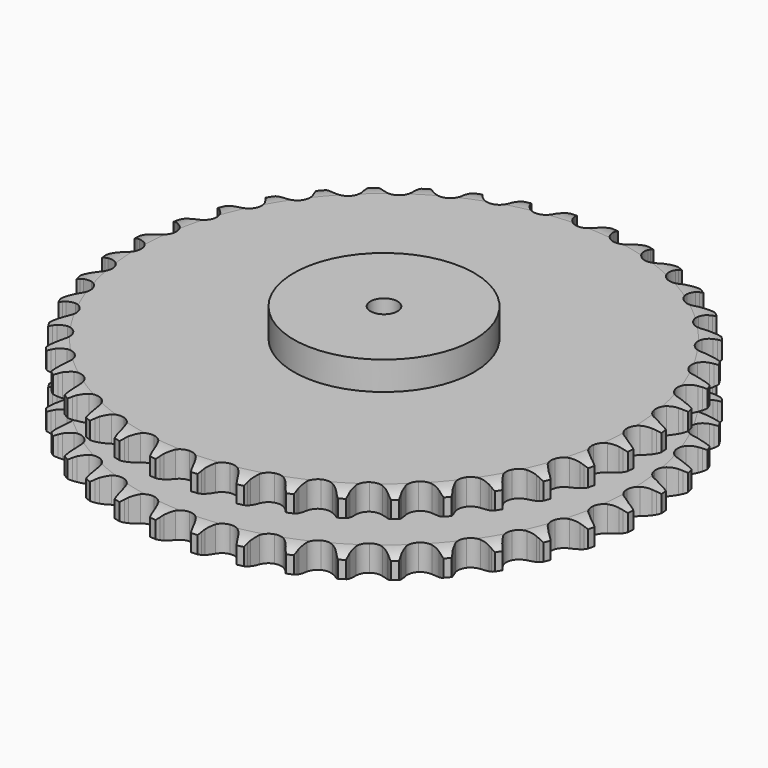
from build123d import *

# Parameters (mm, degrees)
PAD_DEPTH         = 88.4
SKETCH001_R       = 100
PAD001_DEPTH      = 120
SKETCH002_R       = 15
POCKET_DEPTH      = 0.001
POCKET_DEPTH_BACK = 120.001


with BuildPart() as part:
    # Sprocket → Pad (new body)
    with BuildSketch(Plane.XY):
        with BuildLine():
            ThreePointArc((-23.346576, 296.64638), (-19.990941, 292.617833), (-17.648967, 287.926924))
            Line((-17.648967, 287.926924), (-16.286841, 284.164092))
            ThreePointArc((-16.286841, 284.164092), (-14.138032, 279.349101), (-11.316657, 274.894737))
            ThreePointArc((-11.316657, 274.894737), (-6.336463, 270.69731), (0, 269.190673))
            ThreePointArc((0, 269.190673), (6.336463, 270.69731), (11.316657, 274.894737))
            ThreePointArc((11.316657, 274.894737), (14.138032, 279.349101), (16.286841, 284.164092))
            Line((16.286841, 284.164092), (17.648967, 287.926924))
            ThreePointArc((17.648967, 287.926924), (19.990941, 292.617833), (23.346576, 296.64638))
            ThreePointArc((23.346576, 296.64638), (26.030695, 292.142495), (27.610015, 287.142973))
            Line((27.610015, 287.142973), (28.366735, 283.213384))
            ThreePointArc((28.366735, 283.213384), (29.735858, 278.121526), (31.825681, 273.280642))
            ThreePointArc((31.825681, 273.280642), (36.087938, 268.355818), (42.110699, 265.876489))
            ThreePointArc((42.110699, 265.876489), (48.60484, 266.373336), (54.180341, 269.740012))
            Line((54.180341, 269.740012), (60.539381, 278.117737))
            ThreePointArc((60.539381, 278.117737), (61.458235, 279.896024), (62.473374, 281.621159))
            ThreePointArc((62.473374, 281.621159), (65.520334, 285.88795), (69.464859, 289.341961))
            ThreePointArc((69.464859, 289.341961), (71.411369, 284.473638), (72.189147, 279.288608))
            Line((72.189147, 279.288608), (72.321827, 275.289022))
            ThreePointArc((72.321827, 275.289022), (72.877552, 270.045675), (74.184365, 264.937471))
            ThreePointArc((74.184365, 264.937471), (77.623734, 259.406515), (83.184493, 256.015544))
            ThreePointArc((83.184493, 256.015544), (89.676404, 255.490366), (95.709926, 257.943392))
            Line((95.709926, 257.943392), (103.30124, 265.223201))
            ThreePointArc((103.30124, 265.223201), (104.486967, 266.835854), (105.759478, 268.380947))
            ThreePointArc((105.759478, 268.380947), (109.436398, 272.118557), (113.872686, 274.912983))
            ThreePointArc((113.872686, 274.912983), (115.033657, 269.800096), (114.990743, 264.557232))
            Line((114.990743, 264.557232), (114.496117, 260.586131))
            ThreePointArc((114.496117, 260.586131), (114.224759, 255.320404), (114.716384, 250.070659))
            ThreePointArc((114.716384, 250.070659), (117.248177, 244.069763), (122.210008, 239.850646))
            ThreePointArc((122.210008, 239.850646), (128.539837, 238.316375), (134.882814, 239.79535))
            Line((134.882814, 239.79535), (143.51948, 245.797989))
            ThreePointArc((143.51948, 245.797989), (144.942883, 247.205299), (146.441433, 248.532305))
            ThreePointArc((146.441433, 248.532305), (150.657776, 251.648701), (155.47659, 253.714736))
            ThreePointArc((155.47659, 253.714736), (155.823436, 248.483181), (154.960885, 243.311578))
            Line((154.960885, 243.311578), (153.851131, 239.466744))
            ThreePointArc((153.851131, 239.466744), (152.759374, 234.308297), (152.423705, 229.046278))
            ThreePointArc((152.423705, 229.046278), (153.98558, 222.723204), (158.226308, 217.779829))
            ThreePointArc((158.226308, 217.779829), (164.238193, 215.274244), (170.73444, 215.74275))
            Line((170.73444, 215.74275), (180.203793, 220.320415))
            ThreePointArc((180.203793, 220.320415), (181.829824, 221.487729), (183.517514, 222.563972))
            ThreePointArc((183.517514, 222.563972), (188.169458, 224.98242), (193.252144, 226.269189))
            ThreePointArc((193.252144, 226.269189), (192.776324, 221.047784), (191.115376, 216.074785))
            Line((191.115376, 216.074785), (189.417821, 212.450892))
            ThreePointArc((189.417821, 212.450892), (187.532545, 207.526742), (186.377848, 202.382018))
            ThreePointArc((186.377848, 202.382018), (186.931347, 195.89246), (190.34655, 190.34655))
            ThreePointArc((190.34655, 190.34655), (195.89246, 186.931347), (202.382018, 186.377848))
            Line((202.382018, 186.377848), (212.450892, 189.417821))
            ThreePointArc((212.450892, 189.417821), (214.239512, 190.316396), (216.074785, 191.115376))
            ThreePointArc((216.074785, 191.115376), (221.047784, 192.776324), (226.269189, 193.252144))
            ThreePointArc((226.269189, 193.252144), (224.98242, 188.169458), (222.563972, 183.517514))
            Line((222.563972, 183.517514), (220.320415, 180.203793))
            ThreePointArc((220.320415, 180.203793), (217.688043, 175.63519), (215.74275, 170.73444))
            ThreePointArc((215.74275, 170.73444), (215.274244, 164.238193), (217.779829, 158.226308))
            ThreePointArc((217.779829, 158.226308), (222.723204, 153.98558), (229.046278, 152.423705))
            Line((229.046278, 152.423705), (239.466744, 153.851131))
            ThreePointArc((239.466744, 153.851131), (241.373911, 154.458842), (243.311578, 154.960885))
            ThreePointArc((243.311578, 154.960885), (248.483181, 155.823436), (253.714736, 155.47659))
            ThreePointArc((253.714736, 155.47659), (251.648701, 150.657776), (248.532305, 146.441433))
            Line((248.532305, 146.441433), (245.797989, 143.51948))
            ThreePointArc((245.797989, 143.51948), (242.483339, 139.418917), (239.79535, 134.882814))
            ThreePointArc((239.79535, 134.882814), (238.316375, 128.539837), (239.850646, 122.210008))
            ThreePointArc((239.850646, 122.210008), (244.069763, 117.248177), (250.070659, 114.716384))
            Line((250.070659, 114.716384), (260.586131, 114.496117))
            ThreePointArc((260.586131, 114.496117), (262.564884, 114.797999), (264.557232, 114.990743))
            ThreePointArc((264.557232, 114.990743), (269.800096, 115.033657), (274.912983, 113.872686))
            ThreePointArc((274.912983, 113.872686), (272.118557, 109.436398), (268.380947, 105.759478))
            Line((268.380947, 105.759478), (265.223201, 103.30124))
            ThreePointArc((265.223201, 103.30124), (261.307891, 99.769687), (257.943392, 95.709926))
            ThreePointArc((257.943392, 95.709926), (255.490366, 89.676404), (256.015544, 83.184493))
            ThreePointArc((256.015544, 83.184493), (259.406515, 77.623734), (264.937471, 74.184365))
            Line((264.937471, 74.184365), (275.289022, 72.321827))
            ThreePointArc((275.289022, 72.321827), (277.290638, 72.310448), (279.288608, 72.189147))
            ThreePointArc((279.288608, 72.189147), (284.473638, 71.411369), (289.341961, 69.464859))
            ThreePointArc((289.341961, 69.464859), (285.88795, 65.520334), (281.621159, 62.473374))
            Line((281.621159, 62.473374), (278.117737, 60.539381))
            ThreePointArc((278.117737, 60.539381), (273.698175, 57.663797), (269.740012, 54.180341))
            ThreePointArc((269.740012, 54.180341), (266.373336, 48.60484), (265.876489, 42.110699))
            ThreePointArc((265.876489, 42.110699), (268.355818, 36.087938), (273.280642, 31.825681))
            Line((273.280642, 31.825681), (283.213384, 28.366735))
            ThreePointArc((283.213384, 28.366735), (285.188577, 28.042373), (287.142973, 27.610015))
            ThreePointArc((287.142973, 27.610015), (292.142495, 26.030695), (296.64638, 23.346576))
            ThreePointArc((296.64638, 23.346576), (292.617833, 19.990941), (287.926924, 17.648967))
            Line((287.926924, 17.648967), (284.164092, 16.286841))
            ThreePointArc((284.164092, 16.286841), (279.349101, 14.138032), (274.894737, 11.316657))
            ThreePointArc((274.894737, 11.316657), (270.69731, 6.336463), (269.190673, 0))
            ThreePointArc((269.190673, 0), (270.69731, -6.336463), (274.894737, -11.316657))
            Line((274.894737, -11.316657), (284.164092, -16.286841))
            ThreePointArc((284.164092, -16.286841), (286.064226, -16.916197), (287.926924, -17.648967))
            ThreePointArc((287.926924, -17.648967), (292.617833, -19.990941), (296.64638, -23.346576))
            ThreePointArc((296.64638, -23.346576), (292.142495, -26.030695), (287.142973, -27.610015))
            Line((287.142973, -27.610015), (283.213384, -28.366735))
            ThreePointArc((283.213384, -28.366735), (278.121526, -29.735858), (273.280642, -31.825681))
            ThreePointArc((273.280642, -31.825681), (268.355818, -36.087938), (265.876489, -42.110699))
            ThreePointArc((265.876489, -42.110699), (266.373336, -48.60484), (269.740012, -54.180341))
            Line((269.740012, -54.180341), (278.117737, -60.539381))
            ThreePointArc((278.117737, -60.539381), (279.896024, -61.458235), (281.621159, -62.473374))
            ThreePointArc((281.621159, -62.473374), (285.88795, -65.520334), (289.341961, -69.464859))
            ThreePointArc((289.341961, -69.464859), (284.473638, -71.411369), (279.288608, -72.189147))
            Line((279.288608, -72.189147), (275.289022, -72.321827))
            ThreePointArc((275.289022, -72.321827), (270.045675, -72.877552), (264.937471, -74.184365))
            ThreePointArc((264.937471, -74.184365), (259.406515, -77.623734), (256.015544, -83.184493))
            ThreePointArc((256.015544, -83.184493), (255.490366, -89.676404), (257.943392, -95.709926))
            Line((257.943392, -95.709926), (265.223201, -103.30124))
            ThreePointArc((265.223201, -103.30124), (266.835854, -104.486967), (268.380947, -105.759478))
            ThreePointArc((268.380947, -105.759478), (272.118557, -109.436398), (274.912983, -113.872686))
            ThreePointArc((274.912983, -113.872686), (269.800096, -115.033657), (264.557232, -114.990743))
            Line((264.557232, -114.990743), (260.586131, -114.496117))
            ThreePointArc((260.586131, -114.496117), (255.320404, -114.224759), (250.070659, -114.716384))
            ThreePointArc((250.070659, -114.716384), (244.069763, -117.248177), (239.850646, -122.210008))
            ThreePointArc((239.850646, -122.210008), (238.316375, -128.539837), (239.79535, -134.882814))
            Line((239.79535, -134.882814), (245.797989, -143.51948))
            ThreePointArc((245.797989, -143.51948), (247.205299, -144.942883), (248.532305, -146.441433))
            ThreePointArc((248.532305, -146.441433), (251.648701, -150.657776), (253.714736, -155.47659))
            ThreePointArc((253.714736, -155.47659), (248.483181, -155.823436), (243.311578, -154.960885))
            Line((243.311578, -154.960885), (239.466744, -153.851131))
            ThreePointArc((239.466744, -153.851131), (234.308297, -152.759374), (229.046278, -152.423705))
            ThreePointArc((229.046278, -152.423705), (222.723204, -153.98558), (217.779829, -158.226308))
            ThreePointArc((217.779829, -158.226308), (215.274244, -164.238193), (215.74275, -170.73444))
            Line((215.74275, -170.73444), (220.320415, -180.203793))
            ThreePointArc((220.320415, -180.203793), (221.487729, -181.829824), (222.563972, -183.517514))
            ThreePointArc((222.563972, -183.517514), (224.98242, -188.169458), (226.269189, -193.252144))
            ThreePointArc((226.269189, -193.252144), (221.047784, -192.776324), (216.074785, -191.115376))
            Line((216.074785, -191.115376), (212.450892, -189.417821))
            ThreePointArc((212.450892, -189.417821), (207.526742, -187.532545), (202.382018, -186.377848))
            ThreePointArc((202.382018, -186.377848), (195.89246, -186.931347), (190.34655, -190.34655))
            ThreePointArc((190.34655, -190.34655), (186.931347, -195.89246), (186.377848, -202.382018))
            Line((186.377848, -202.382018), (189.417821, -212.450892))
            ThreePointArc((189.417821, -212.450892), (190.316396, -214.239512), (191.115376, -216.074785))
            ThreePointArc((191.115376, -216.074785), (192.776324, -221.047784), (193.252144, -226.269189))
            ThreePointArc((193.252144, -226.269189), (188.169458, -224.98242), (183.517514, -222.563972))
            Line((183.517514, -222.563972), (180.203793, -220.320415))
            ThreePointArc((180.203793, -220.320415), (175.63519, -217.688043), (170.73444, -215.74275))
            ThreePointArc((170.73444, -215.74275), (164.238193, -215.274244), (158.226308, -217.779829))
            ThreePointArc((158.226308, -217.779829), (153.98558, -222.723204), (152.423705, -229.046278))
            Line((152.423705, -229.046278), (153.851131, -239.466744))
            ThreePointArc((153.851131, -239.466744), (154.458842, -241.373911), (154.960885, -243.311578))
            ThreePointArc((154.960885, -243.311578), (155.823436, -248.483181), (155.47659, -253.714736))
            ThreePointArc((155.47659, -253.714736), (150.657776, -251.648701), (146.441433, -248.532305))
            Line((146.441433, -248.532305), (143.51948, -245.797989))
            ThreePointArc((143.51948, -245.797989), (139.418917, -242.483339), (134.882814, -239.79535))
            ThreePointArc((134.882814, -239.79535), (128.539837, -238.316375), (122.210008, -239.850646))
            ThreePointArc((122.210008, -239.850646), (117.248177, -244.069763), (114.716384, -250.070659))
            Line((114.716384, -250.070659), (114.496117, -260.586131))
            ThreePointArc((114.496117, -260.586131), (114.797999, -262.564884), (114.990743, -264.557232))
            ThreePointArc((114.990743, -264.557232), (115.033657, -269.800096), (113.872686, -274.912983))
            ThreePointArc((113.872686, -274.912983), (109.436398, -272.118557), (105.759478, -268.380947))
            Line((105.759478, -268.380947), (103.30124, -265.223201))
            ThreePointArc((103.30124, -265.223201), (99.769687, -261.307891), (95.709926, -257.943392))
            ThreePointArc((95.709926, -257.943392), (89.676404, -255.490366), (83.184493, -256.015544))
            ThreePointArc((83.184493, -256.015544), (77.623734, -259.406515), (74.184365, -264.937471))
            Line((74.184365, -264.937471), (72.321827, -275.289022))
            ThreePointArc((72.321827, -275.289022), (72.310448, -277.290638), (72.189147, -279.288608))
            ThreePointArc((72.189147, -279.288608), (71.411369, -284.473638), (69.464859, -289.341961))
            ThreePointArc((69.464859, -289.341961), (65.520334, -285.88795), (62.473374, -281.621159))
            Line((62.473374, -281.621159), (60.539381, -278.117737))
            ThreePointArc((60.539381, -278.117737), (57.663797, -273.698175), (54.180341, -269.740012))
            ThreePointArc((54.180341, -269.740012), (48.60484, -266.373336), (42.110699, -265.876489))
            ThreePointArc((42.110699, -265.876489), (36.087938, -268.355818), (31.825681, -273.280642))
            Line((31.825681, -273.280642), (28.366735, -283.213384))
            ThreePointArc((28.366735, -283.213384), (28.042373, -285.188577), (27.610015, -287.142973))
            ThreePointArc((27.610015, -287.142973), (26.030695, -292.142495), (23.346576, -296.64638))
            ThreePointArc((23.346576, -296.64638), (19.990941, -292.617833), (17.648967, -287.926924))
            Line((17.648967, -287.926924), (16.286841, -284.164092))
            ThreePointArc((16.286841, -284.164092), (14.138032, -279.349101), (11.316657, -274.894737))
            ThreePointArc((11.316657, -274.894737), (6.336463, -270.69731), (0, -269.190673))
            ThreePointArc((0, -269.190673), (-6.336463, -270.69731), (-11.316657, -274.894737))
            Line((-11.316657, -274.894737), (-16.286841, -284.164092))
            ThreePointArc((-16.286841, -284.164092), (-16.916197, -286.064226), (-17.648967, -287.926924))
            ThreePointArc((-17.648967, -287.926924), (-19.990941, -292.617833), (-23.346576, -296.64638))
            ThreePointArc((-23.346576, -296.64638), (-26.030695, -292.142495), (-27.610015, -287.142973))
            Line((-27.610015, -287.142973), (-28.366735, -283.213384))
            ThreePointArc((-28.366735, -283.213384), (-29.735858, -278.121526), (-31.825681, -273.280642))
            ThreePointArc((-31.825681, -273.280642), (-36.087938, -268.355818), (-42.110699, -265.876489))
            ThreePointArc((-42.110699, -265.876489), (-48.60484, -266.373336), (-54.180341, -269.740012))
            Line((-54.180341, -269.740012), (-60.539381, -278.117737))
            ThreePointArc((-60.539381, -278.117737), (-61.458235, -279.896024), (-62.473374, -281.621159))
            ThreePointArc((-62.473374, -281.621159), (-65.520334, -285.88795), (-69.464859, -289.341961))
            ThreePointArc((-69.464859, -289.341961), (-71.411369, -284.473638), (-72.189147, -279.288608))
            Line((-72.189147, -279.288608), (-72.321827, -275.289022))
            ThreePointArc((-72.321827, -275.289022), (-72.877552, -270.045675), (-74.184365, -264.937471))
            ThreePointArc((-74.184365, -264.937471), (-77.623734, -259.406515), (-83.184493, -256.015544))
            ThreePointArc((-83.184493, -256.015544), (-89.676404, -255.490366), (-95.709926, -257.943392))
            Line((-95.709926, -257.943392), (-103.30124, -265.223201))
            ThreePointArc((-103.30124, -265.223201), (-104.486967, -266.835854), (-105.759478, -268.380947))
            ThreePointArc((-105.759478, -268.380947), (-109.436398, -272.118557), (-113.872686, -274.912983))
            ThreePointArc((-113.872686, -274.912983), (-115.033657, -269.800096), (-114.990743, -264.557232))
            Line((-114.990743, -264.557232), (-114.496117, -260.586131))
            ThreePointArc((-114.496117, -260.586131), (-114.224759, -255.320404), (-114.716384, -250.070659))
            ThreePointArc((-114.716384, -250.070659), (-117.248177, -244.069763), (-122.210008, -239.850646))
            ThreePointArc((-122.210008, -239.850646), (-128.539837, -238.316375), (-134.882814, -239.79535))
            Line((-134.882814, -239.79535), (-143.51948, -245.797989))
            ThreePointArc((-143.51948, -245.797989), (-144.942883, -247.205299), (-146.441433, -248.532305))
            ThreePointArc((-146.441433, -248.532305), (-150.657776, -251.648701), (-155.47659, -253.714736))
            ThreePointArc((-155.47659, -253.714736), (-155.823436, -248.483181), (-154.960885, -243.311578))
            Line((-154.960885, -243.311578), (-153.851131, -239.466744))
            ThreePointArc((-153.851131, -239.466744), (-152.759374, -234.308297), (-152.423705, -229.046278))
            ThreePointArc((-152.423705, -229.046278), (-153.98558, -222.723204), (-158.226308, -217.779829))
            ThreePointArc((-158.226308, -217.779829), (-164.238193, -215.274244), (-170.73444, -215.74275))
            Line((-170.73444, -215.74275), (-180.203793, -220.320415))
            ThreePointArc((-180.203793, -220.320415), (-181.829824, -221.487729), (-183.517514, -222.563972))
            ThreePointArc((-183.517514, -222.563972), (-188.169458, -224.98242), (-193.252144, -226.269189))
            ThreePointArc((-193.252144, -226.269189), (-192.776324, -221.047784), (-191.115376, -216.074785))
            Line((-191.115376, -216.074785), (-189.417821, -212.450892))
            ThreePointArc((-189.417821, -212.450892), (-187.532545, -207.526742), (-186.377848, -202.382018))
            ThreePointArc((-186.377848, -202.382018), (-186.931347, -195.89246), (-190.34655, -190.34655))
            ThreePointArc((-190.34655, -190.34655), (-195.89246, -186.931347), (-202.382018, -186.377848))
            Line((-202.382018, -186.377848), (-212.450892, -189.417821))
            ThreePointArc((-212.450892, -189.417821), (-214.239512, -190.316396), (-216.074785, -191.115376))
            ThreePointArc((-216.074785, -191.115376), (-221.047784, -192.776324), (-226.269189, -193.252144))
            ThreePointArc((-226.269189, -193.252144), (-224.98242, -188.169458), (-222.563972, -183.517514))
            Line((-222.563972, -183.517514), (-220.320415, -180.203793))
            ThreePointArc((-220.320415, -180.203793), (-217.688043, -175.63519), (-215.74275, -170.73444))
            ThreePointArc((-215.74275, -170.73444), (-215.274244, -164.238193), (-217.779829, -158.226308))
            ThreePointArc((-217.779829, -158.226308), (-222.723204, -153.98558), (-229.046278, -152.423705))
            Line((-229.046278, -152.423705), (-239.466744, -153.851131))
            ThreePointArc((-239.466744, -153.851131), (-241.373911, -154.458842), (-243.311578, -154.960885))
            ThreePointArc((-243.311578, -154.960885), (-248.483181, -155.823436), (-253.714736, -155.47659))
            ThreePointArc((-253.714736, -155.47659), (-251.648701, -150.657776), (-248.532305, -146.441433))
            Line((-248.532305, -146.441433), (-245.797989, -143.51948))
            ThreePointArc((-245.797989, -143.51948), (-242.483339, -139.418917), (-239.79535, -134.882814))
            ThreePointArc((-239.79535, -134.882814), (-238.316375, -128.539837), (-239.850646, -122.210008))
            ThreePointArc((-239.850646, -122.210008), (-244.069763, -117.248177), (-250.070659, -114.716384))
            Line((-250.070659, -114.716384), (-260.586131, -114.496117))
            ThreePointArc((-260.586131, -114.496117), (-262.564884, -114.797999), (-264.557232, -114.990743))
            ThreePointArc((-264.557232, -114.990743), (-269.800096, -115.033657), (-274.912983, -113.872686))
            ThreePointArc((-274.912983, -113.872686), (-272.118557, -109.436398), (-268.380947, -105.759478))
            Line((-268.380947, -105.759478), (-265.223201, -103.30124))
            ThreePointArc((-265.223201, -103.30124), (-261.307891, -99.769687), (-257.943392, -95.709926))
            ThreePointArc((-257.943392, -95.709926), (-255.490366, -89.676404), (-256.015544, -83.184493))
            ThreePointArc((-256.015544, -83.184493), (-259.406515, -77.623734), (-264.937471, -74.184365))
            Line((-264.937471, -74.184365), (-275.289022, -72.321827))
            ThreePointArc((-275.289022, -72.321827), (-277.290638, -72.310448), (-279.288608, -72.189147))
            ThreePointArc((-279.288608, -72.189147), (-284.473638, -71.411369), (-289.341961, -69.464859))
            ThreePointArc((-289.341961, -69.464859), (-285.88795, -65.520334), (-281.621159, -62.473374))
            Line((-281.621159, -62.473374), (-278.117737, -60.539381))
            ThreePointArc((-278.117737, -60.539381), (-273.698175, -57.663797), (-269.740012, -54.180341))
            ThreePointArc((-269.740012, -54.180341), (-266.373336, -48.60484), (-265.876489, -42.110699))
            ThreePointArc((-265.876489, -42.110699), (-268.355818, -36.087938), (-273.280642, -31.825681))
            Line((-273.280642, -31.825681), (-283.213384, -28.366735))
            ThreePointArc((-283.213384, -28.366735), (-285.188577, -28.042373), (-287.142973, -27.610015))
            ThreePointArc((-287.142973, -27.610015), (-292.142495, -26.030695), (-296.64638, -23.346576))
            ThreePointArc((-296.64638, -23.346576), (-292.617833, -19.990941), (-287.926924, -17.648967))
            Line((-287.926924, -17.648967), (-284.164092, -16.286841))
            ThreePointArc((-284.164092, -16.286841), (-279.349101, -14.138032), (-274.894737, -11.316657))
            ThreePointArc((-274.894737, -11.316657), (-270.69731, -6.336463), (-269.190673, 0))
            ThreePointArc((-269.190673, 0), (-270.69731, 6.336463), (-274.894737, 11.316657))
            Line((-274.894737, 11.316657), (-284.164092, 16.286841))
            ThreePointArc((-284.164092, 16.286841), (-286.064226, 16.916197), (-287.926924, 17.648967))
            ThreePointArc((-287.926924, 17.648967), (-292.617833, 19.990941), (-296.64638, 23.346576))
            ThreePointArc((-296.64638, 23.346576), (-292.142495, 26.030695), (-287.142973, 27.610015))
            Line((-287.142973, 27.610015), (-283.213384, 28.366735))
            ThreePointArc((-283.213384, 28.366735), (-278.121526, 29.735858), (-273.280642, 31.825681))
            ThreePointArc((-273.280642, 31.825681), (-268.355818, 36.087938), (-265.876489, 42.110699))
            ThreePointArc((-265.876489, 42.110699), (-266.373336, 48.60484), (-269.740012, 54.180341))
            Line((-269.740012, 54.180341), (-278.117737, 60.539381))
            ThreePointArc((-278.117737, 60.539381), (-279.896024, 61.458235), (-281.621159, 62.473374))
            ThreePointArc((-281.621159, 62.473374), (-285.88795, 65.520334), (-289.341961, 69.464859))
            ThreePointArc((-289.341961, 69.464859), (-284.473638, 71.411369), (-279.288608, 72.189147))
            Line((-279.288608, 72.189147), (-275.289022, 72.321827))
            ThreePointArc((-275.289022, 72.321827), (-270.045675, 72.877552), (-264.937471, 74.184365))
            ThreePointArc((-264.937471, 74.184365), (-259.406515, 77.623734), (-256.015544, 83.184493))
            ThreePointArc((-256.015544, 83.184493), (-255.490366, 89.676404), (-257.943392, 95.709926))
            Line((-257.943392, 95.709926), (-265.223201, 103.30124))
            ThreePointArc((-265.223201, 103.30124), (-266.835854, 104.486967), (-268.380947, 105.759478))
            ThreePointArc((-268.380947, 105.759478), (-272.118557, 109.436398), (-274.912983, 113.872686))
            ThreePointArc((-274.912983, 113.872686), (-269.800096, 115.033657), (-264.557232, 114.990743))
            Line((-264.557232, 114.990743), (-260.586131, 114.496117))
            ThreePointArc((-260.586131, 114.496117), (-255.320404, 114.224759), (-250.070659, 114.716384))
            ThreePointArc((-250.070659, 114.716384), (-244.069763, 117.248177), (-239.850646, 122.210008))
            ThreePointArc((-239.850646, 122.210008), (-238.316375, 128.539837), (-239.79535, 134.882814))
            Line((-239.79535, 134.882814), (-245.797989, 143.51948))
            ThreePointArc((-245.797989, 143.51948), (-247.205299, 144.942883), (-248.532305, 146.441433))
            ThreePointArc((-248.532305, 146.441433), (-251.648701, 150.657776), (-253.714736, 155.47659))
            ThreePointArc((-253.714736, 155.47659), (-248.483181, 155.823436), (-243.311578, 154.960885))
            Line((-243.311578, 154.960885), (-239.466744, 153.851131))
            ThreePointArc((-239.466744, 153.851131), (-234.308297, 152.759374), (-229.046278, 152.423705))
            ThreePointArc((-229.046278, 152.423705), (-222.723204, 153.98558), (-217.779829, 158.226308))
            ThreePointArc((-217.779829, 158.226308), (-215.274244, 164.238193), (-215.74275, 170.73444))
            Line((-215.74275, 170.73444), (-220.320415, 180.203793))
            ThreePointArc((-220.320415, 180.203793), (-221.487729, 181.829824), (-222.563972, 183.517514))
            ThreePointArc((-222.563972, 183.517514), (-224.98242, 188.169458), (-226.269189, 193.252144))
            ThreePointArc((-226.269189, 193.252144), (-221.047784, 192.776324), (-216.074785, 191.115376))
            Line((-216.074785, 191.115376), (-212.450892, 189.417821))
            ThreePointArc((-212.450892, 189.417821), (-207.526742, 187.532545), (-202.382018, 186.377848))
            ThreePointArc((-202.382018, 186.377848), (-195.89246, 186.931347), (-190.34655, 190.34655))
            ThreePointArc((-190.34655, 190.34655), (-186.931347, 195.89246), (-186.377848, 202.382018))
            Line((-186.377848, 202.382018), (-189.417821, 212.450892))
            ThreePointArc((-189.417821, 212.450892), (-190.316396, 214.239512), (-191.115376, 216.074785))
            ThreePointArc((-191.115376, 216.074785), (-192.776324, 221.047784), (-193.252144, 226.269189))
            ThreePointArc((-193.252144, 226.269189), (-188.169458, 224.98242), (-183.517514, 222.563972))
            Line((-183.517514, 222.563972), (-180.203793, 220.320415))
            ThreePointArc((-180.203793, 220.320415), (-175.63519, 217.688043), (-170.73444, 215.74275))
            ThreePointArc((-170.73444, 215.74275), (-164.238193, 215.274244), (-158.226308, 217.779829))
            ThreePointArc((-158.226308, 217.779829), (-153.98558, 222.723204), (-152.423705, 229.046278))
            Line((-152.423705, 229.046278), (-153.851131, 239.466744))
            ThreePointArc((-153.851131, 239.466744), (-154.458842, 241.373911), (-154.960885, 243.311578))
            ThreePointArc((-154.960885, 243.311578), (-155.823436, 248.483181), (-155.47659, 253.714736))
            ThreePointArc((-155.47659, 253.714736), (-150.657776, 251.648701), (-146.441433, 248.532305))
            Line((-146.441433, 248.532305), (-143.51948, 245.797989))
            ThreePointArc((-143.51948, 245.797989), (-139.418917, 242.483339), (-134.882814, 239.79535))
            ThreePointArc((-134.882814, 239.79535), (-128.539837, 238.316375), (-122.210008, 239.850646))
            ThreePointArc((-122.210008, 239.850646), (-117.248177, 244.069763), (-114.716384, 250.070659))
            Line((-114.716384, 250.070659), (-114.496117, 260.586131))
            ThreePointArc((-114.496117, 260.586131), (-114.797999, 262.564884), (-114.990743, 264.557232))
            ThreePointArc((-114.990743, 264.557232), (-115.033657, 269.800096), (-113.872686, 274.912983))
            ThreePointArc((-113.872686, 274.912983), (-109.436398, 272.118557), (-105.759478, 268.380947))
            Line((-105.759478, 268.380947), (-103.30124, 265.223201))
            ThreePointArc((-103.30124, 265.223201), (-99.769687, 261.307891), (-95.709926, 257.943392))
            ThreePointArc((-95.709926, 257.943392), (-89.676404, 255.490366), (-83.184493, 256.015544))
            ThreePointArc((-83.184493, 256.015544), (-77.623734, 259.406515), (-74.184365, 264.937471))
            Line((-74.184365, 264.937471), (-72.321827, 275.289022))
            ThreePointArc((-72.321827, 275.289022), (-72.310448, 277.290638), (-72.189147, 279.288608))
            ThreePointArc((-72.189147, 279.288608), (-71.411369, 284.473638), (-69.464859, 289.341961))
            ThreePointArc((-69.464859, 289.341961), (-65.520334, 285.88795), (-62.473374, 281.621159))
            Line((-62.473374, 281.621159), (-60.539381, 278.117737))
            ThreePointArc((-60.539381, 278.117737), (-57.663797, 273.698175), (-54.180341, 269.740012))
            ThreePointArc((-54.180341, 269.740012), (-48.60484, 266.373336), (-42.110699, 265.876489))
            ThreePointArc((-42.110699, 265.876489), (-36.087938, 268.355818), (-31.825681, 273.280642))
            Line((-31.825681, 273.280642), (-28.366735, 283.213384))
            ThreePointArc((-28.366735, 283.213384), (-28.042373, 285.188577), (-27.610015, 287.142973))
            ThreePointArc((-27.610015, 287.142973), (-26.030695, 292.142495), (-23.346576, 296.64638))
        make_face()
    extrude(amount=PAD_DEPTH)

    # Sketch → Groove (revolve, cut)
    with BuildSketch(Plane.XZ):
        with BuildLine():
            ThreePointArc((272.128451, 0), (282.61654, 1.268279), (292.5, 5))
            Line((292.5, 5), (292.5, 23.8))
            ThreePointArc((292.5, 23.8), (282.61654, 27.531721), (272.128451, 28.8))
            Line((100, 28.8), (272.128451, 28.8))
            Line((100, 59.6), (100, 28.8))
            Line((272.128451, 59.6), (100, 59.6))
            ThreePointArc((272.128451, 59.6), (282.61654, 60.868279), (292.5, 64.6))
            Line((292.5, 64.6), (292.5, 83.4))
            ThreePointArc((292.5, 83.4), (282.61654, 87.131721), (272.128451, 88.4))
            Line((272.128451, 88.4), (302.5, 88.4))
            Line((302.5, 88.4), (302.5, 0))
            Line((272.128451, 0), (302.5, 0))
        make_face()
    revolve(axis=Axis((0, 0, 0), (0, 0, 1)), mode=Mode.SUBTRACT)

    # Sketch001 → Pad001 (join)
    with BuildSketch(Plane.XY):
        Circle(SKETCH001_R)
    extrude(amount=PAD001_DEPTH)

    # Sketch002 → Pocket (cut, two sides)
    with BuildSketch(Plane.XY) as pocket_sk:
        Circle(SKETCH002_R)
    extrude(amount=-POCKET_DEPTH, mode=Mode.SUBTRACT)
    extrude(pocket_sk.sketch, amount=POCKET_DEPTH_BACK, mode=Mode.SUBTRACT)


solid = part.part
